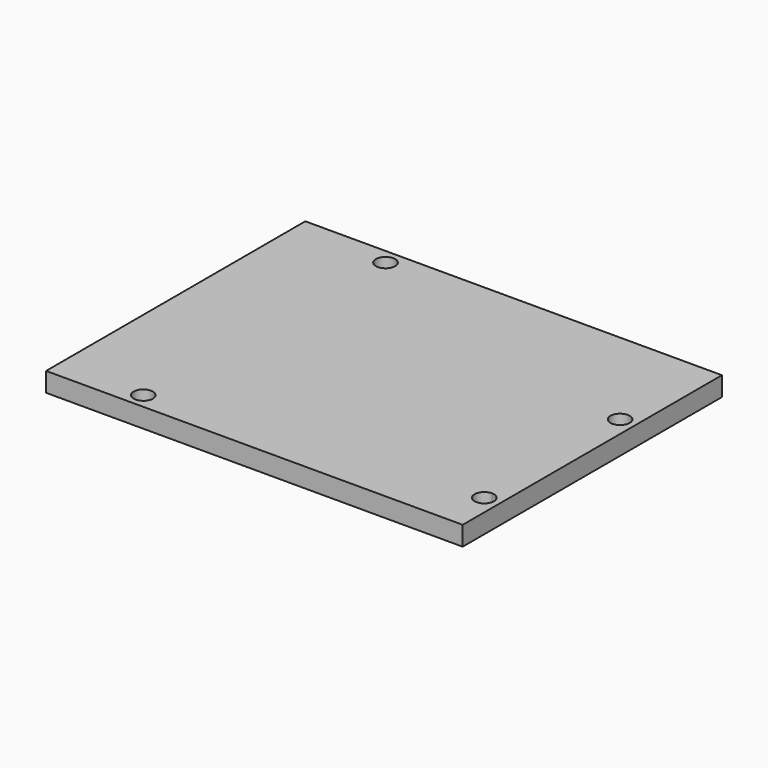
from build123d import *

# Parameters (mm, degrees)
F0_W     = 68.58
F0_H     = 53.34
F0_R     = 1.5875
F1_DEPTH = 3.175


with BuildPart() as f1:
    # F0 (on Top) → F1 (new body)
    with BuildSketch(Plane.XY):
        with Locations((34.29, -26.67)):
            Rectangle(F0_W, F0_H)
        with Locations((13.97, -50.8)):
            Circle(F0_R, mode=Mode.SUBTRACT)
        with BuildLine():
            ThreePointArc((67.6275, -45.72), (64.9174679849, -46.8425320151), (66.04, -44.1325))
            ThreePointArc((66.04, -44.1325), (67.1625320151, -44.5974679849), (67.6275, -45.72))
        make_face(mode=Mode.SUBTRACT)
        with Locations((15.24, -2.54)):
            Circle(F0_R, mode=Mode.SUBTRACT)
        with BuildLine():
            ThreePointArc((67.6275, -17.78), (67.1625320151, -18.9025320151), (66.04, -19.3675))
            ThreePointArc((66.04, -19.3675), (64.9174679849, -16.6574679849), (67.6275, -17.78))
        make_face(mode=Mode.SUBTRACT)
    extrude(amount=F1_DEPTH)


solid = f1.part
